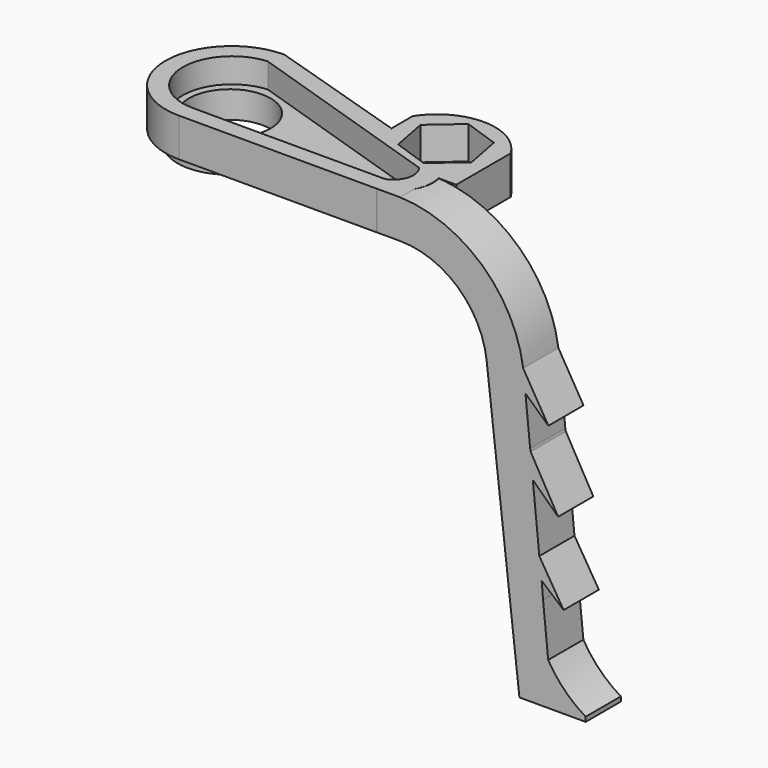
from build123d import *

# Parameters (mm, degrees)
PAD007_DEPTH       = 2
PAD010_DEPTH       = 3.5
POCKET003005_DEPTH = 2.25
SKETCH016_R        = 4.702209
PAD011_DEPTH       = 1.2
SKETCH017_R        = 3.711245
POCKET003006_DEPTH = 5
PAD014_DEPTH       = 3.5
SKETCH031_R        = 1.7
POCKET003015_DEPTH = 5
PAD019_DEPTH       = 4
POCKET003038_DEPTH = 3


with BuildPart() as part:
    # Sketch010 → Pad007 (new body, symmetric)
    with BuildSketch(Plane.XZ):
        with BuildLine():
            Line((0, 28.012352), (20.118014, 28.012352))
            ThreePointArc((27.996705, 20.985645), (25.39647, 26.000475), (20.118014, 28.012352))
            Line((27.996705, 20.985645), (30.977077, -4.999855))
            Line((33.977077, -4.999855), (30.977077, -4.999855))
            Line((31.375086, 21.001563), (33.977077, -4.999855))
            ThreePointArc((31.375086, 21.001563), (27.724484, 28.375327), (20.118014, 31.512352))
            Line((0, 31.512352), (20.118014, 31.512352))
            Line((0, 28.012352), (0, 31.512352))
        make_face()
    extrude(amount=PAD007_DEPTH, both=True)

    # Sketch011 → Pad010 (new body)
    with BuildSketch(Plane(origin=(0, 0, 31.512352), x_dir=(-1, 0, 0), z_dir=(0, 0, 1))):
        with BuildLine():
            Line((-18.002971, 2.001985), (0, 2.001985))
            ThreePointArc((0, -10), (6.000993, -3.999007), (0, 2.001985))
            Line((-19, -4), (0, -10))
            ThreePointArc((-18.002971, 2.001985), (-20.489406, -0.668781), (-19, -4))
        make_face()
    extrude(amount=-PAD010_DEPTH)

    # Sketch015 → Pocket003005 (cut)
    with BuildSketch(Plane(origin=(0, 0, 31.512352), x_dir=(-1, 0, 0), z_dir=(0, 0, 1))):
        with BuildLine():
            Line((-17.557616, 0.476904), (0, 0.476904))
            ThreePointArc((0.265399, -8.449899), (4.421634, -3.858985), (0, 0.476904))
            Line((0.265399, -8.449899), (-18.344393, -2.383287))
            ThreePointArc((-17.557616, 0.476904), (-18.678345, -0.753115), (-18.344393, -2.383287))
        make_face()
    extrude(amount=-POCKET003005_DEPTH, mode=Mode.SUBTRACT)

    # Sketch016 → Pad011 (new body)
    with BuildSketch(Plane(origin=(0, 0, 28.012352), x_dir=(1, 0, 0), z_dir=(0, 0, -1))):
        with Locations((-0.089106, -3.841625)):
            Circle(SKETCH016_R)
    extrude(amount=PAD011_DEPTH)

    # Sketch017 → Pocket003006 (cut)
    with BuildSketch(Plane(origin=(0, 0, 26.812352), x_dir=(1, 0, 0), z_dir=(0, 0, -1))):
        with Locations((-0.080471, -3.899184)):
            Circle(SKETCH017_R)
    extrude(amount=-POCKET003006_DEPTH, mode=Mode.SUBTRACT)

    # Sketch022 → Pad014 (new body)
    with BuildSketch(Plane(origin=(0, 0, 31.512352), x_dir=(-1, 0, 0), z_dir=(0, 0, 1))):
        with BuildLine():
            Line((-20.438215, -2), (-13.234047, -4.102969))
            Line((-13.234047, -4.102969), (-13.028216, -6.021869))
            Line((-13.028216, -6.021869), (-13.028216, -8.298126))
            ThreePointArc((-22.034031, -8.18918), (-17.561616, -10.764285), (-13.028216, -8.298126))
            Line((-22.034031, -8.18918), (-22.034031, -2))
            Line((-20.438215, -2), (-22.034031, -2))
        make_face()
    extrude(amount=-PAD014_DEPTH)

    # Sketch031 → Pocket003015 (cut)
    with BuildSketch(Plane(origin=(0, 0, 31.512352), x_dir=(-1, 0, 0), z_dir=(0, 0, 1))):
        with Locations((-17.509254, -6.500788)):
            Circle(SKETCH031_R)
    extrude(amount=-POCKET003015_DEPTH, mode=Mode.SUBTRACT)

    # Sketch032 → Pad019 (new body)
    with BuildSketch(Plane.XZ.offset(2)):
        with BuildLine():
            Line((27, 28.536497), (32.513573, -5))
            Line((32.513573, -5), (37.000002, -5))
            Line((37.000002, -5), (37.000002, -4.583553))
            ThreePointArc((33.505627, -1), (35.019116, -3.019659), (37.000002, -4.583553))
            Line((33, 5), (33.505627, -1))
            Line((35, 3.304739), (33, 5))
            Line((32.728943, 7), (35, 3.304739))
            Line((32, 13), (32.728943, 7))
            Line((34.496559, 10.608005), (32, 13))
            Line((32, 15), (34.496559, 10.608005))
            Line((31, 20), (32, 15))
            Line((33.606815, 17.606869), (31, 20))
            Line((31, 22), (33.606815, 17.606869))
            Line((27, 28.536497), (31, 22))
        make_face()
    extrude(amount=-PAD019_DEPTH)

    # Sketch074 → Pocket003038 (cut)
    with BuildSketch(Plane(origin=(0, 0, 31.512352), x_dir=(-1, 0, 0), z_dir=(0, 0, 1))):
        Polygon((-16.869587, -9.826502), (-14.299442, -7.600665), (-14.942, -4.261935), (-18.154705, -3.149042), (-20.72485, -5.374879), (-20.082292, -8.713609), align=None)
    extrude(amount=-POCKET003038_DEPTH, mode=Mode.SUBTRACT)


solid = part.part
